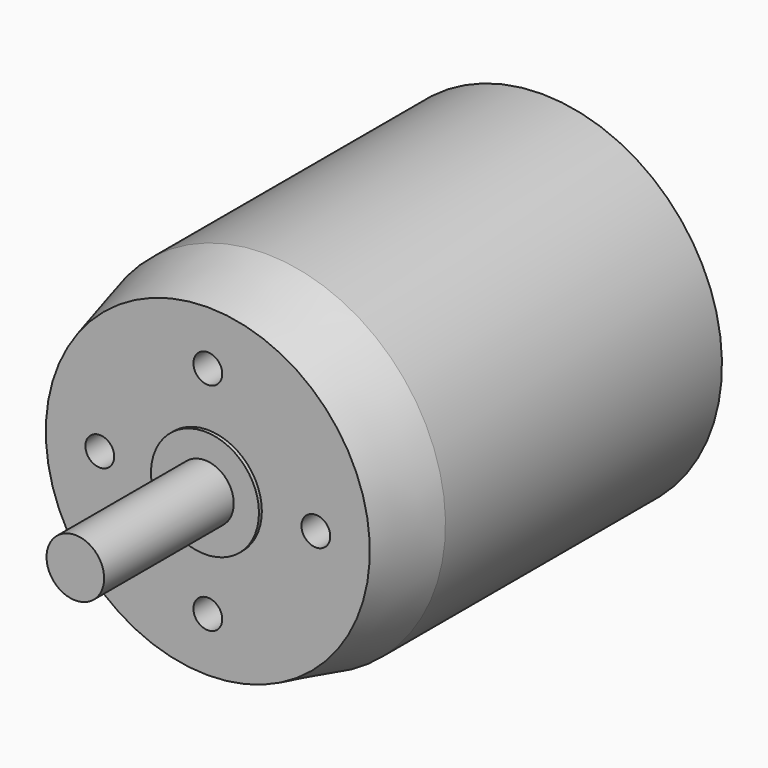
from build123d import *

# Parameters (mm, degrees)
F2_R     = 2
F3_DEPTH = 5
F4_R     = 7.5
F5_DEPTH = 0.5
F6_R     = 1.5
F7_DEPTH = 6


with BuildPart() as f1:
    # F0 (on Right) → F1 (revolve)
    with BuildSketch(Plane.YZ):
        Polygon((10, 25), (0, 22.5), (0, 4), (-23, 4), (-23, 0), (60, 0), (60, 7), (58, 7), (58, 25), align=None)
    revolve(axis=Axis((0, 18.5, 0), (0, 1, 0)))

    # F2 (on face) → F3 (cut)
    with BuildSketch(Plane.XZ):
        with Locations((15, 0)):
            Circle(F2_R)
        with Locations((0, 15)):
            Circle(F2_R)
        with Locations((-15, 0)):
            Circle(F2_R)
        with Locations((0, -15)):
            Circle(F2_R)
    extrude(amount=-F3_DEPTH, mode=Mode.SUBTRACT)

    # F4 (on face) → F5 (join)
    with BuildSketch(Plane.XZ):
        Circle(F4_R)
    extrude(amount=F5_DEPTH)

    # F6 (on face) → F7 (cut)
    with BuildSketch(Plane(origin=(0, 58, 0), x_dir=(-1, 0, 0), z_dir=(0, 1, 0))):
        with Locations((10, 0)):
            Circle(F6_R)
        with Locations((0, 10)):
            Circle(F6_R)
        with Locations((-10, 0)):
            Circle(F6_R)
        with Locations((0, -10)):
            Circle(F6_R)
    extrude(amount=-F7_DEPTH, mode=Mode.SUBTRACT)


solid = f1.part
